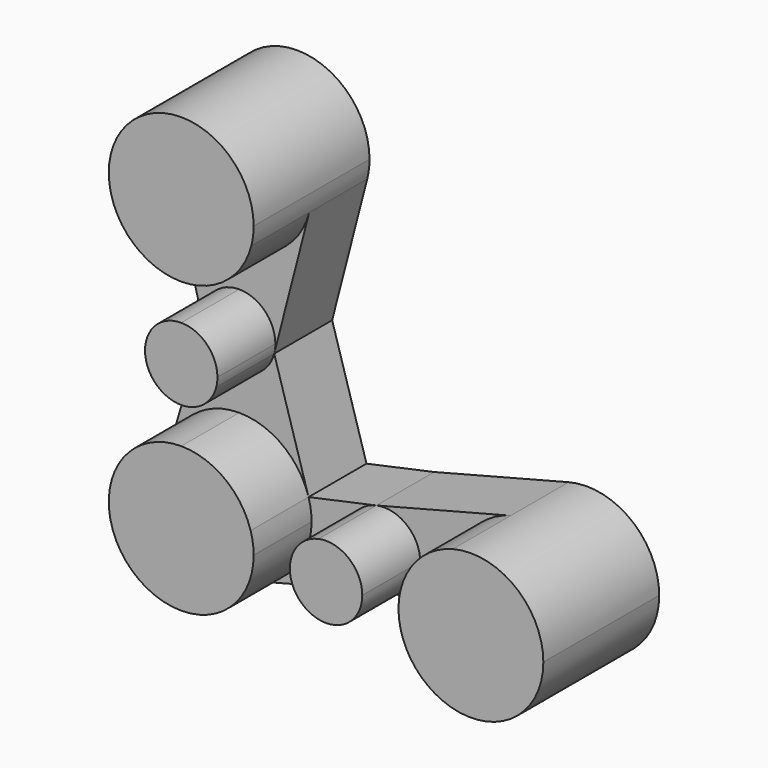
from build123d import *

# Parameters (mm, degrees)
F1_DEPTH = 50.8
F2_DEPTH = 25.4


with BuildPart() as f1:
    # F0 (on Front) → F1 (new body)
    with BuildSketch(Plane.XZ):
        with BuildLine():
            ThreePointArc((-126.038001, -1.17355), (-110.483741, 4.145986), (-101.444557, 17.87645))
            ThreePointArc((-101.444557, 17.87645), (-100.840447, 21.025941), (-100.638001, 24.22645))
            ThreePointArc((-100.638001, 24.22645), (-129.23851, 49.424004), (-150.631445, 17.87645))
            ThreePointArc((-150.631445, 17.87645), (-141.592261, 4.145986), (-126.038001, -1.17355))
        make_face()
        with BuildLine():
            ThreePointArc((-119.688001, -101.966995), (-105.957538, -92.92781), (-100.638001, -77.37355))
            Line((-100.638001, -77.37355), (-126.038001, -77.37355))
            Line((-126.038001, -77.37355), (-126.038001, -51.97355))
            ThreePointArc((-126.038001, -51.97355), (-141.215295, -57.006672), (-150.377694, -70.111366))
            ThreePointArc((-150.377694, -70.111366), (-144.330145, -94.996191), (-119.688001, -101.966995))
        make_face()
        with BuildLine():
            Line((-126.038001, -77.37355), (-100.638001, -77.37355))
            ThreePointArc((-100.638001, -77.37355), (-100.904476, -73.70396), (-101.698308, -70.111366))
            ThreePointArc((-101.698308, -70.111366), (-110.860707, -57.006672), (-126.038001, -51.97355))
            Line((-126.038001, -51.97355), (-126.038001, -77.37355))
        make_face()
        with BuildLine():
            ThreePointArc((-126.038001, -39.27355), (-118.260871, -36.613782), (-113.741279, -29.74855))
            ThreePointArc((-113.741279, -29.74855), (-113.439224, -28.173805), (-113.338001, -26.57355))
            ThreePointArc((-113.338001, -26.57355), (-117.057745, -17.593294), (-126.038001, -13.87355))
            Line((-126.038001, -13.87355), (-126.038001, -26.57355))
            Line((-126.038001, -26.57355), (-126.038001, -39.27355))
        make_face()
        with BuildLine():
            ThreePointArc((-138.334723, -29.74855), (-133.815131, -36.613782), (-126.038001, -39.27355))
            Line((-126.038001, -39.27355), (-126.038001, -26.57355))
            Line((-126.038001, -26.57355), (-126.038001, -13.87355))
            ThreePointArc((-126.038001, -13.87355), (-136.078233, -18.79642), (-138.334723, -29.74855))
        make_face()
        with BuildLine():
            ThreePointArc((-30.792962, -52.781389), (-44.520032, -61.821317), (-49.838, -77.37355))
            ThreePointArc((-49.838, -77.37355), (-44.804879, -92.550844), (-31.700185, -101.713243))
            ThreePointArc((-31.700185, -101.713243), (-9.260708, -97.740428), (0.961998, -77.37355))
            ThreePointArc((0.961998, -77.37355), (-8.885768, -57.291519), (-30.792962, -52.781389))
        make_face()
        with BuildLine():
            Line((-87.938001, -77.37355), (-75.238001, -77.37355))
            Line((-75.238001, -77.37355), (-62.538001, -77.37355))
            ThreePointArc((-62.538001, -77.37355), (-67.264924, -67.488206), (-77.926983, -64.961485))
            ThreePointArc((-77.926983, -64.961485), (-85.123346, -69.400473), (-87.938001, -77.37355))
        make_face()
        with BuildLine():
            Line((-62.538001, -77.37355), (-75.238001, -77.37355))
            Line((-75.238001, -77.37355), (-87.938001, -77.37355))
            ThreePointArc((-87.938001, -77.37355), (-83.015131, -87.413782), (-72.063001, -89.670273))
            ThreePointArc((-72.063001, -89.670273), (-65.19777, -85.15068), (-62.538001, -77.37355))
        make_face()
    extrude(amount=F1_DEPTH)


with BuildPart() as f2:
    # F0 (on Front) → F2 (new body)
    with BuildSketch(Plane.XZ):
        with BuildLine():
            Line((-150.631445, 17.87645), (-138.334723, -29.74855))
            ThreePointArc((-138.334723, -29.74855), (-136.078233, -18.79642), (-126.038001, -13.87355))
            Line((-126.038001, -13.87355), (-126.038001, -1.17355))
            ThreePointArc((-126.038001, -1.17355), (-141.592261, 4.145986), (-150.631445, 17.87645))
        make_face()
        with BuildLine():
            ThreePointArc((-113.338001, -26.57355), (-113.439224, -28.173805), (-113.741279, -29.74855))
            Line((-113.741279, -29.74855), (-101.444557, 17.87645))
            ThreePointArc((-101.444557, 17.87645), (-110.483741, 4.145986), (-126.038001, -1.17355))
            Line((-126.038001, -1.17355), (-126.038001, -13.87355))
            ThreePointArc((-126.038001, -13.87355), (-117.057745, -17.593294), (-113.338001, -26.57355))
        make_face()
        with BuildLine():
            ThreePointArc((-150.377694, -70.111366), (-141.215295, -57.006672), (-126.038001, -51.97355))
            Line((-126.038001, -51.97355), (-126.038001, -39.27355))
            ThreePointArc((-126.038001, -39.27355), (-133.815131, -36.613782), (-138.334723, -29.74855))
            Line((-138.334723, -29.74855), (-150.377694, -70.111366))
        make_face()
        with BuildLine():
            ThreePointArc((-126.038001, -51.97355), (-110.860707, -57.006672), (-101.698308, -70.111366))
            Line((-101.698308, -70.111366), (-113.741279, -29.74855))
            ThreePointArc((-113.741279, -29.74855), (-118.260871, -36.613782), (-126.038001, -39.27355))
            Line((-126.038001, -39.27355), (-126.038001, -51.97355))
        make_face()
        with BuildLine():
            ThreePointArc((-72.063001, -89.670273), (-83.015131, -87.413782), (-87.938001, -77.37355))
            Line((-87.938001, -77.37355), (-100.638001, -77.37355))
            ThreePointArc((-100.638001, -77.37355), (-105.957538, -92.92781), (-119.688001, -101.966995))
            Line((-119.688001, -101.966995), (-72.063001, -89.670273))
        make_face()
        with BuildLine():
            Line((-100.638001, -77.37355), (-87.938001, -77.37355))
            ThreePointArc((-87.938001, -77.37355), (-85.123346, -69.400473), (-77.926983, -64.961485))
            Line((-77.926983, -64.961485), (-101.698308, -70.111366))
            ThreePointArc((-101.698308, -70.111366), (-100.904476, -73.70396), (-100.638001, -77.37355))
        make_face()
        with BuildLine():
            ThreePointArc((-77.926983, -64.961485), (-67.264924, -67.488206), (-62.538001, -77.37355))
            Line((-62.538001, -77.37355), (-49.838, -77.37355))
            ThreePointArc((-49.838, -77.37355), (-44.520032, -61.821317), (-30.792962, -52.781389))
            Line((-30.792962, -52.781389), (-77.926983, -64.961485))
        make_face()
        with BuildLine():
            Line((-49.838, -77.37355), (-62.538001, -77.37355))
            ThreePointArc((-62.538001, -77.37355), (-65.19777, -85.15068), (-72.063001, -89.670273))
            Line((-72.063001, -89.670273), (-31.700185, -101.713243))
            ThreePointArc((-31.700185, -101.713243), (-44.804879, -92.550844), (-49.838, -77.37355))
        make_face()
    extrude(amount=F2_DEPTH)


solid = Compound([f1.part, f2.part])
